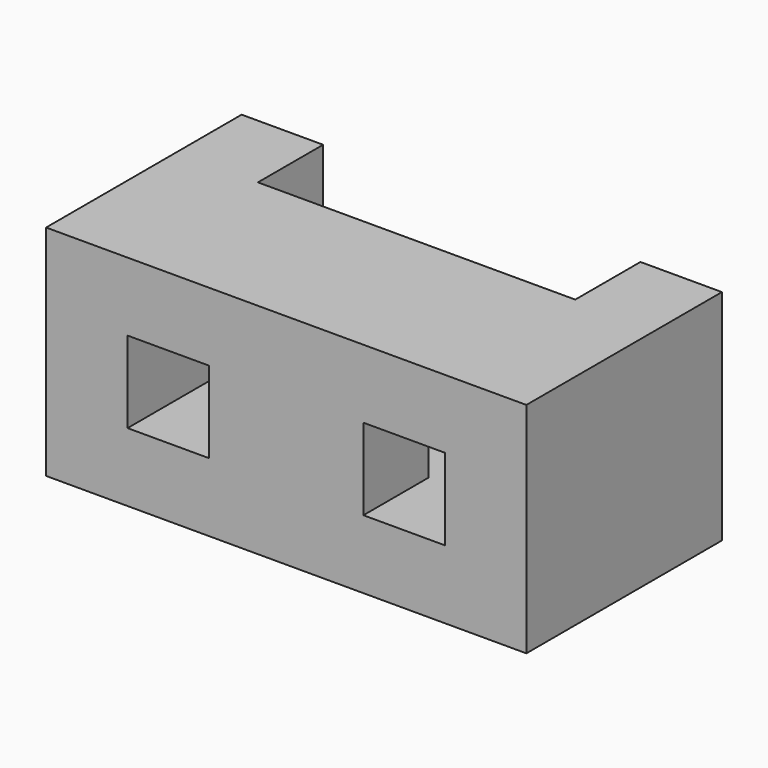
from build123d import *

# Parameters (mm, degrees)
F1_DEPTH = 38
F0_W     = 36
F0_H     = 19
F2_DEPTH = 19
F3_DEPTH = 57
F4_R     = 8
F5_DEPTH = 16


with BuildPart() as f1:
    # F0 (on Front) → F1 (new body)
    with BuildSketch(Plane.XZ):
        Polygon((93, 51), (19, 51), (19, 35), (38, 35), (74, 35), (93, 35), align=None)
    extrude(amount=-F1_DEPTH)

    # F0 (on Front) → F2 (join)
    with BuildSketch(Plane.XZ):
        with Locations((56, 25.5)):
            Rectangle(F0_W, F0_H)
    extrude(amount=-F2_DEPTH)

    # F0 (on Front) → F3 (join)
    with BuildSketch(Plane.XZ):
        Polygon((0, 51), (0, 0), (112, 0), (112, 51), (93, 51), (93, 35), (93, 16), (74, 16), (38, 16), (19, 16), (19, 35), (19, 51), align=None)
    extrude(amount=-F3_DEPTH)

    # F4 (on face) → F5 (cut)
    with BuildSketch(Plane(origin=(0, 0, 0), x_dir=(1, 0, 0), z_dir=(0, 0, -1))):
        with Locations((56, -19)):
            Circle(F4_R)
    extrude(amount=-F5_DEPTH, mode=Mode.SUBTRACT)


solid = f1.part
